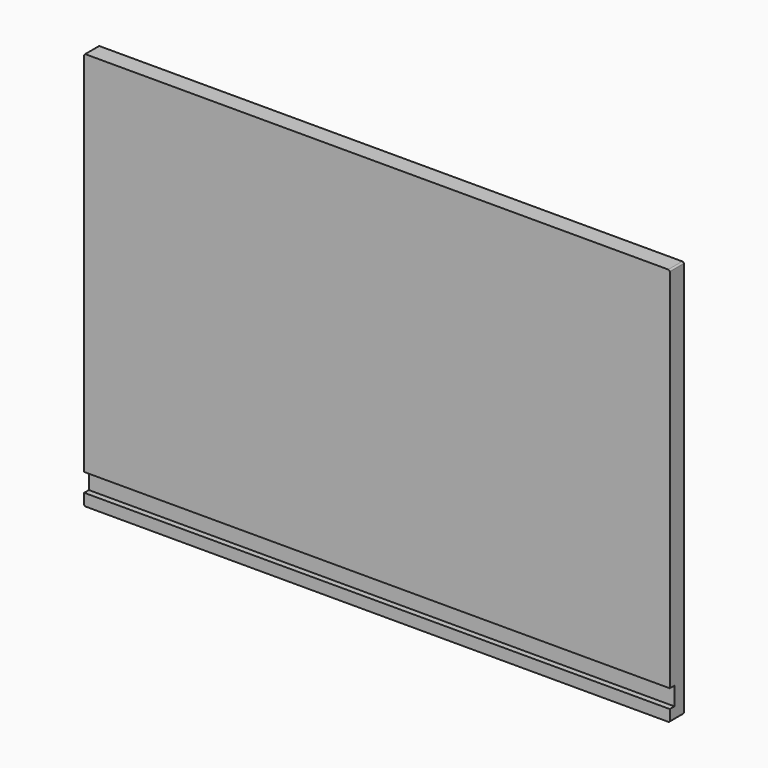
from build123d import *

# Parameters (mm, degrees)
F1_DEPTH = 200
F2_R     = 1


with BuildPart() as f1:
    # F0 (on Right) → F1 (new body, symmetric)
    with BuildSketch(Plane.YZ):
        Polygon((-12, 8), (-12, 0), (0, 0), (0, 272), (-12, 272), (-12, 20.5), (-8, 20.5), (-8, 8), align=None)
    extrude(amount=F1_DEPTH, both=True)

    # F2
    f2_edges = [f1.edges().sort_by_distance(p)[0] for p in [
        (-200, -6, 272),
        (200, -6, 272),
        (200, -6, 0),
        (-200, -6, 0),
    ]]
    fillet(f2_edges, radius=F2_R)


solid = f1.part
